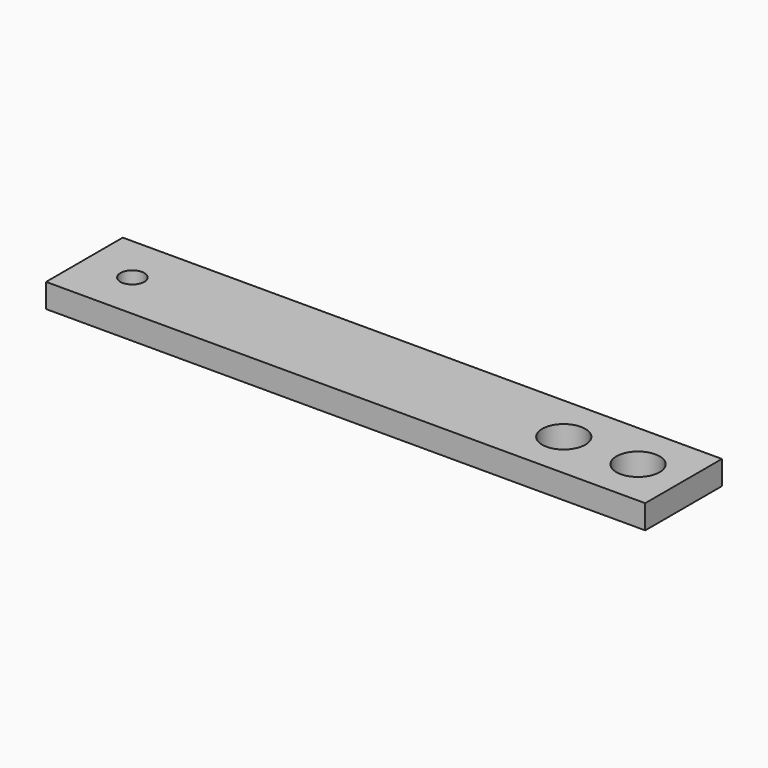
from build123d import *

# Parameters (mm, degrees)
F0_W     = 250
F0_H     = 40
F0_R     = 5
F1_DEPTH = 10
F2_R     = 9
F3_DEPTH = 25
F4_R     = 9
F5_DEPTH = 25


with BuildPart() as f1:
    # F0 (on Top) → F1 (new body)
    with BuildSketch(Plane.XY):
        Rectangle(F0_W, F0_H)
        with Locations((-105, 0)):
            Circle(F0_R, mode=Mode.SUBTRACT)
    extrude(amount=F1_DEPTH)

    # F2 (on face) → F3 (cut)
    with BuildSketch(Plane(origin=(0, 0, 0), x_dir=(1, 0, 0), z_dir=(0, 0, -1))):
        with Locations((106, 0)):
            Circle(F2_R)
    extrude(amount=-F3_DEPTH, mode=Mode.SUBTRACT)

    # F4 (on face) → F5 (cut)
    with BuildSketch(Plane(origin=(0, 0, 0), x_dir=(1, 0, 0), z_dir=(0, 0, -1))):
        with Locations((75, 0)):
            Circle(F4_R)
    extrude(amount=-F5_DEPTH, mode=Mode.SUBTRACT)


solid = f1.part
